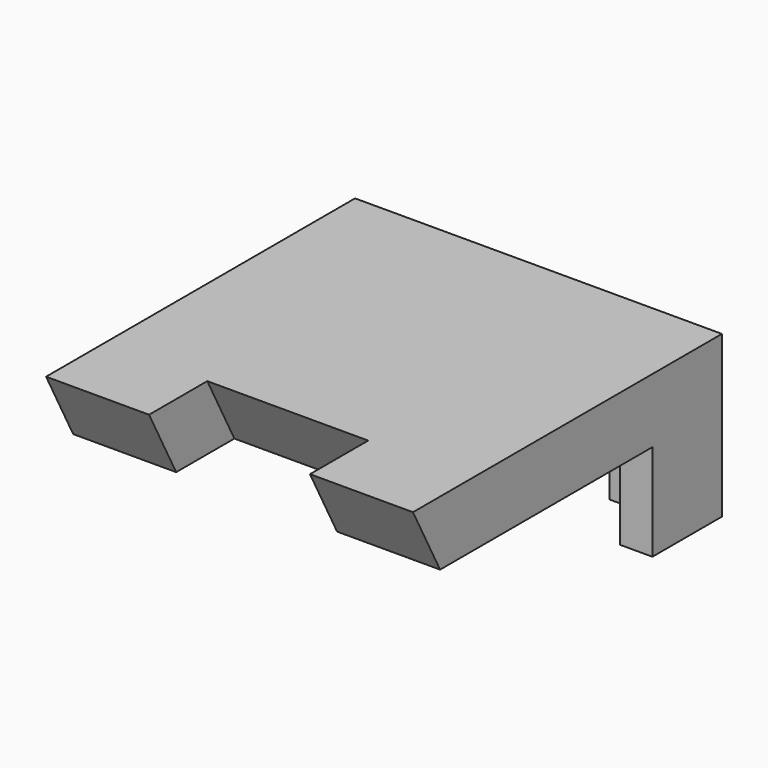
from build123d import *

# Parameters (mm, degrees)
PAD048_DEPTH           = 12.5
PAD047_DEPTH           = 57
PAD049_DEPTH           = 15
CUT001_PLACEMENT_ANGLE = 180


with BuildPart() as body025:
    # Sketch091 → Pad048 (new body, symmetric)
    with BuildSketch(Plane.YZ):
        Polygon((43.43318, 10), (54.734671, 10), (60, 0), (48.698509, 0), align=None)
    extrude(amount=PAD048_DEPTH, both=True)


with BuildPart() as body025_1:
    # Body025 placement: moved
    add(body025.part.moved(Location((28.5, 0, 0))))


with BuildPart() as cut001:
    # Sketch088 → Pad047 (new body)
    with BuildSketch(Plane.YZ):
        Polygon((0, 0), (60, 0), (54.734671, 10), (0, 10), align=None)
    extrude(amount=PAD047_DEPTH)

    # Sketch093 (on Face1 of Pad047) → Pad049 (join)
    with BuildSketch(Plane(origin=(0, 0, 10), x_dir=(0, -1, 0), z_dir=(0, 0, 1))):
        Polygon((0, 0), (-13.5, 0), (-13.5, 5), (-5, 5), (-5, 13.5), (0, 13.5), align=None)
        Polygon((0, 57), (-13.5, 57), (-13.5, 52), (-5, 52), (-5, 43.5), (0, 43.5), align=None)
    extrude(amount=PAD049_DEPTH)

    # Cut001: cut Body025
    add(body025_1.part, mode=Mode.SUBTRACT)


with BuildPart() as cut001_1:
    # Cut001 placement: moved
    add(cut001.part.moved(Location((-57, 295, 0))).rotate(Axis((-57, 295, 0), (1, 0, 0)), CUT001_PLACEMENT_ANGLE))


solid = cut001_1.part
